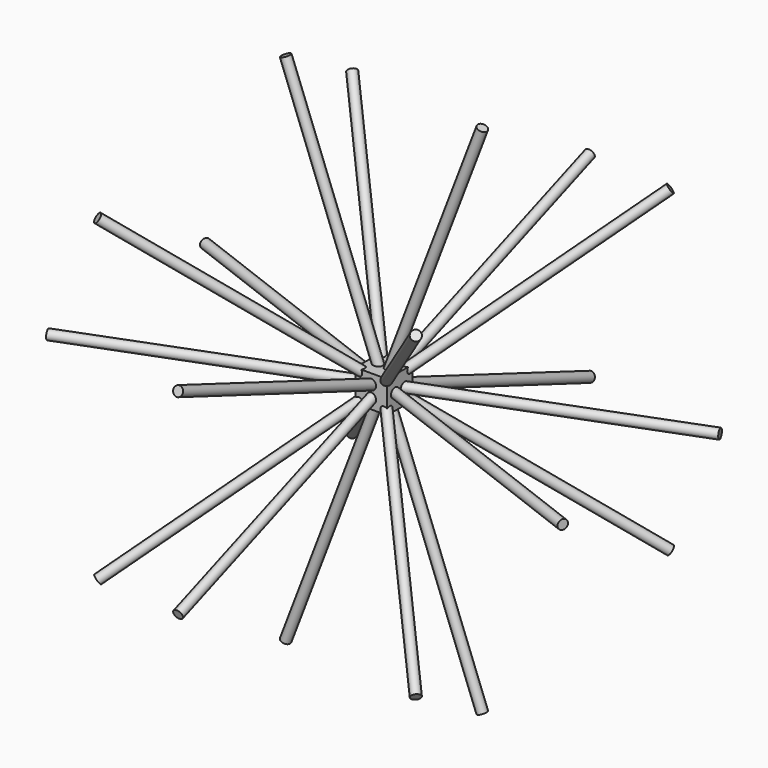
from build123d import *

# Parameters (mm, degrees)
F1_DEPTH = 5
F9_R     = 1.5
F12_R    = 1.5
F15_R    = 1.5
F18_R    = 1.5
F21_R    = 1.5
F24_R    = 1.5
F28_R    = 1.5
F32_R    = 1.5
F31_R    = 1.5
F36_R    = 1.5


with BuildPart() as f1:
    # F0 (on Top) → F1 (new body, symmetric)
    with BuildSketch(Plane.XY):
        Polygon((-5, -5), (5, -5), (5, -1.9098300548), (0, 0), (-5, -1.9098300548), align=None)
        Polygon((0, 0), (5, -1.9098300548), (5, 1.9098300548), align=None)
        Polygon((-5, 1.9098300548), (-5, -1.9098300548), (0, 0), align=None)
        Polygon((0, 0), (5, 1.9098300548), (5, 5), (-5, 5), (-5, 1.9098300548), align=None)
    extrude(amount=F1_DEPTH, both=True)

    # F10: sweep along a path in F3
    with BuildLine(Plane(origin=(0, 0, 0), x_dir=(-0.7071067812, 0.7071067812, 0), z_dir=(0.7071067812, 0.7071067812, 0))) as f10_path:
        Line((-70.710678, 50), (70.710678, -50))
    # F9 (on line) → F10 (sweep)
    with BuildSketch(Plane(origin=(49.9999999161, -49.9999999161, 50), x_dir=(-0.8164965812, -0.4082482899, 0.4082482906), z_dir=(-0.5773502689, 0.5773502689, -0.5773502698))):
        Circle(F9_R)
    sweep(path=f10_path.line)

    # F13: sweep along a path in F3
    with BuildLine(Plane(origin=(0, 0, 0), x_dir=(-0.7071067812, 0.7071067812, 0), z_dir=(0.7071067812, 0.7071067812, 0))) as f13_path:
        Line((-70.710678, -50), (70.710678, 50))
    # F12 (on line) → F13 (sweep)
    with BuildSketch(Plane(origin=(49.9999999161, -49.9999999161, -50), x_dir=(-0.8164965812, -0.4082482899, -0.4082482906), z_dir=(-0.5773502689, 0.5773502689, 0.5773502698))):
        Circle(F12_R)
    sweep(path=f13_path.line)

    # F16: sweep along a path in F5
    with BuildLine(Plane(origin=(0, 0, 0), x_dir=(0.7071067812, 0.7071067812, 0), z_dir=(0.7071067812, -0.7071067812, 0))) as f16_path:
        Line((70.710678, -50), (-70.710678, 50))
    # F15 (on line) → F16 (sweep)
    with BuildSketch(Plane(origin=(-49.9999999161, -49.9999999161, 50), x_dir=(0.8164965812, -0.4082482899, 0.4082482906), z_dir=(-0.5773502689, -0.5773502689, 0.5773502698))):
        Circle(F15_R)
    sweep(path=f16_path.line)

    # F19: sweep along a path in F5
    with BuildLine(Plane(origin=(0, 0, 0), x_dir=(0.7071067812, 0.7071067812, 0), z_dir=(0.7071067812, -0.7071067812, 0))) as f19_path:
        Line((70.710678, 50), (-70.710678, -50))
    # F18 (on line) → F19 (sweep)
    with BuildSketch(Plane(origin=(-49.9999999161, -49.9999999161, -50), x_dir=(0.8164965812, -0.4082482899, -0.4082482906), z_dir=(-0.5773502689, -0.5773502689, -0.5773502698))):
        Circle(F18_R)
    sweep(path=f19_path.line)

    # F22: sweep along a path in F7
    with BuildLine(Plane.YZ) as f22_path:
        Line((-80.9016994, -30.9016994), (80.9016994, 30.9016994))
    # F21 (on line) → F22 (sweep)
    with BuildSketch(Plane(origin=(0, -80.9016994, -30.9016994), x_dir=(-1, 0, 0), z_dir=(0, 0.9341723591, 0.3568220895))):
        Circle(F21_R)
    sweep(path=f22_path.line)

    # F25: sweep along a path in F7
    with BuildLine(Plane.YZ) as f25_path:
        Line((-80.9016994, 30.9016994), (80.9016994, -30.9016994))
    # F24 (on line) → F25 (sweep)
    with BuildSketch(Plane(origin=(0, 80.9016994, -30.9016994), x_dir=(-1, 0, 0), z_dir=(0, 0.9341723591, -0.3568220895))):
        Circle(F24_R)
    sweep(path=f25_path.line)

    # F29: sweep along a path in F0
    with BuildLine(Plane.XY) as f29_path:
        Line((80.9016994, 30.9016994), (-80.9016994, -30.9016994))
    # F28 (on line) → F29 (sweep)
    with BuildSketch(Plane(origin=(80.9016994, 30.9016994, 0), x_dir=(0.3568220895, -0.9341723591, 0), z_dir=(-0.9341723591, -0.3568220895, 0))):
        Circle(F28_R)
    sweep(path=f29_path.line)

    # F33: sweep along a path in F0
    with BuildLine(Plane.XY) as f33_path:
        Line((-80.9016994, 30.9016994), (80.9016994, -30.9016994))
    # F32 (on line) → F33 (sweep)
    with BuildSketch(Plane(origin=(80.9016994, -30.9016994, 0), x_dir=(0.3568220895, 0.9341723591, 0), z_dir=(0.9341723591, -0.3568220895, 0))):
        Circle(F32_R)
    sweep(path=f33_path.line)

    # F34: sweep along a path in F6
    with BuildLine(Plane.XZ) as f34_path:
        Line((-30.9016994, -80.9016994), (30.9016994, 80.9016994))
    # F31 (on line) → F34 (sweep)
    with BuildSketch(Plane(origin=(30.9016994, 0, 80.9016994), x_dir=(0.9341723591, 0, -0.3568220895), z_dir=(0.3568220895, 0, 0.9341723591))):
        Circle(F31_R)
    sweep(path=f34_path.line)

    # F37: sweep along a path in F6
    with BuildLine(Plane.XZ) as f37_path:
        Line((-30.9016994, 80.9016994), (30.9016994, -80.9016994))
    # F36 (on line) → F37 (sweep)
    with BuildSketch(Plane(origin=(-30.9016994, 0, 80.9016994), x_dir=(0.9341723591, 0, 0.3568220895), z_dir=(0.3568220895, 0, -0.9341723591))):
        Circle(F36_R)
    sweep(path=f37_path.line)


solid = f1.part
